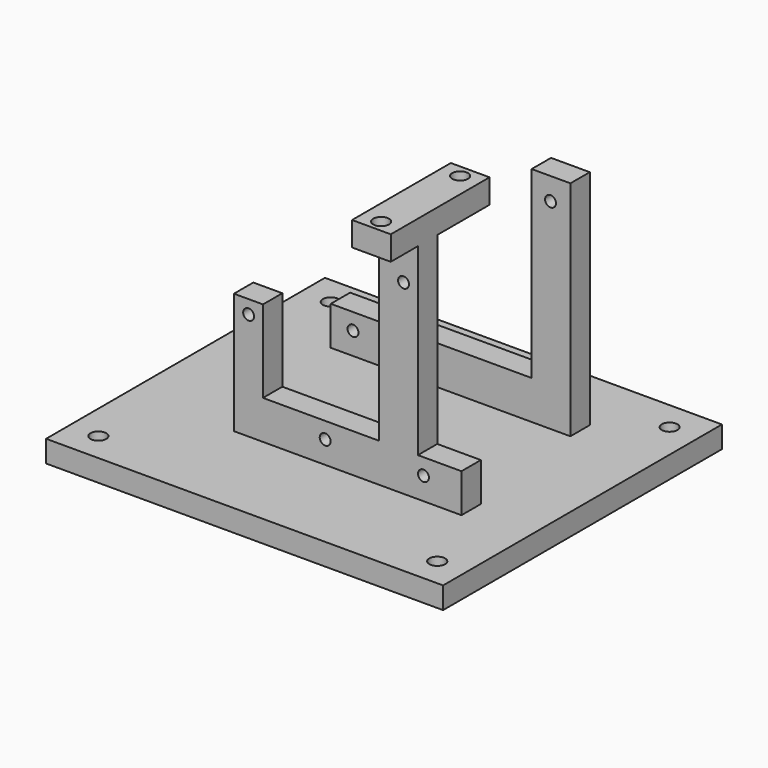
from build123d import *

# Parameters (mm, degrees)
EXTRUDE031_DEPTH = 5
SKETCH021_R      = 1.125
EXTRUDE005_DEPTH = 5
SKETCH020_W      = 8
SKETCH020_H      = 25.5
SKETCH020_R      = 1.625
EXTRUDE004_DEPTH = 5
SKETCH019_R      = 1.125
EXTRUDE003_DEPTH = 5
SKETCH093_W      = 82
SKETCH093_H      = 72
SKETCH093_R      = 1.625
EXTRUDE030_DEPTH = 4.5


with BuildPart() as obj1:
    # Sketch094 → Extrude031 (new body)
    with BuildSketch(Plane.XY):
        with BuildLine():
            ThreePointArc((-7.5, -283.5), (-12.5, -288.5), (-7.5, -293.5))
            Line((-7.5, -293.5), (0, -293.5))
            ThreePointArc((0, -293.5), (5, -288.5), (0, -283.5))
            Line((0, -283.5), (-7.5, -283.5))
        make_face()
    extrude(amount=EXTRUDE031_DEPTH)


with BuildPart() as obj1_1:
    # Extrude031 placement: moved
    add(obj1.part.moved(Location((0, 0, -309.75))))


with BuildPart() as obj2:
    # Sketch021 (on Extrude) → Extrude005 (new body)
    with BuildSketch(Plane.XZ):
        Polygon((-25, -309), (-25, -301), (16.5, -301), (16.5, -263), (24.5, -263), (24.5, -309), align=None)
        with Locations((-20.4, -304.4)):
            Circle(SKETCH021_R, mode=Mode.SUBTRACT)
        with Locations((20.4, -267.6)):
            Circle(SKETCH021_R, mode=Mode.SUBTRACT)
    extrude(amount=EXTRUDE005_DEPTH)


with BuildPart() as obj2_1:
    # Extrude005 placement: moved
    add(obj2.part.moved(Location((0, -262.5, 0))))


with BuildPart() as gpshold:
    # Sketch020 → Extrude004 (new body)
    with BuildSketch(Plane.XY.offset(-263)):
        with Locations((15, -294.25)):
            Rectangle(SKETCH020_W, SKETCH020_H)
        with Locations((15, -284.1)):
            Circle(SKETCH020_R, mode=Mode.SUBTRACT)
        with Locations((15, -304.5)):
            Circle(SKETCH020_R, mode=Mode.SUBTRACT)
    extrude(amount=EXTRUDE004_DEPTH)


with BuildPart() as obj3:
    # Sketch019 → Extrude003 (new body)
    with BuildSketch(Plane.XZ.offset(295)):
        Polygon((28, -309), (28, -301), (19, -301), (19, -263), (11, -263), (11, -301), (-13, -301), (-13, -284), (-19, -284), (-19, -309), align=None)
        with Locations((-15.96, -286.8)):
            Circle(SKETCH019_R, mode=Mode.SUBTRACT)
        with Locations((-0.15, -304.37)):
            Circle(SKETCH019_R, mode=Mode.SUBTRACT)
        with Locations((20.15, -304.37)):
            Circle(SKETCH019_R, mode=Mode.SUBTRACT)
        with Locations((16.04, -270.55)):
            Circle(SKETCH019_R, mode=Mode.SUBTRACT)
    extrude(amount=EXTRUDE003_DEPTH)


with BuildPart() as base012:
    # Sketch093 → Extrude030 (new body)
    with BuildSketch(Plane.XY):
        with Locations((0, -285)):
            Rectangle(SKETCH093_W, SKETCH093_H)
        with Locations((-35, -315)):
            Circle(SKETCH093_R, mode=Mode.SUBTRACT)
        with Locations((35, -315)):
            Circle(SKETCH093_R, mode=Mode.SUBTRACT)
        with Locations((35, -255)):
            Circle(SKETCH093_R, mode=Mode.SUBTRACT)
        with Locations((-35, -255)):
            Circle(SKETCH093_R, mode=Mode.SUBTRACT)
        with BuildLine():
            ThreePointArc((-3.658125, -285.3), (-12.5, -288.5), (-3.658125, -291.7))
            Line((-0.399218, -291.675), (-3.658125, -291.7))
            ThreePointArc((-0.399218, -291.675), (3.2, -288.5), (-0.399218, -285.325))
            Line((-0.399218, -285.325), (-3.658125, -285.3))
        make_face(mode=Mode.SUBTRACT)
        with BuildLine():
            ThreePointArc((-2, -253), (-4, -255), (-2, -257))
            Line((2, -258), (-2, -257))
            ThreePointArc((2, -258), (5, -255), (2, -252))
            Line((-2, -253), (2, -252))
        make_face(mode=Mode.SUBTRACT)
    extrude(amount=EXTRUDE030_DEPTH)


with BuildPart() as base012_1:
    # Extrude030 placement: moved
    add(base012.part.moved(Location((0, 0, -313.5))))

    # Fusion078: union obj2, gpsHold, obj3
    add(obj2_1.part)
    add(gpshold.part)
    add(obj3.part)

    # Cut035: cut obj1
    add(obj1_1.part, mode=Mode.SUBTRACT)


solid = base012_1.part
